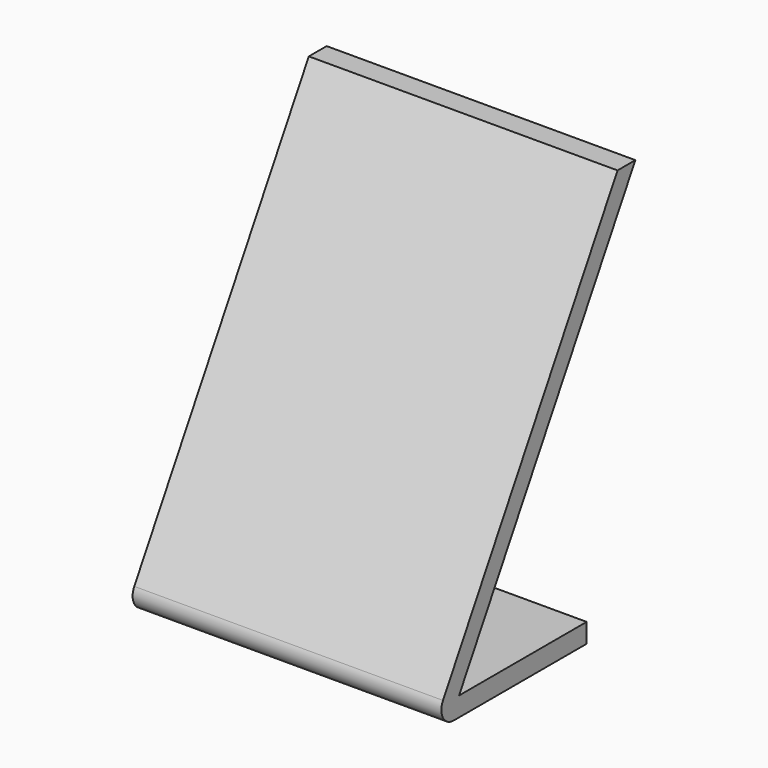
from build123d import *

# Parameters (mm, degrees)
F1_DEPTH = 50.8
F2_R     = 5.08


with BuildPart() as f1:
    # F0 (on Right) → F1 (new body, symmetric)
    with BuildSketch(Plane.YZ):
        Polygon((76.2, 131.982272), (0, 0), (63.5, 0), (63.5, 6.349999), (10.998521, 6.349999), (83.532348, 131.982272), align=None)
    extrude(amount=F1_DEPTH, both=True)

    # F2
    f2_edges = [f1.edges().sort_by_distance(p)[0] for p in [
        (0, 0, 0),
    ]]
    fillet(f2_edges, radius=F2_R)


solid = f1.part
